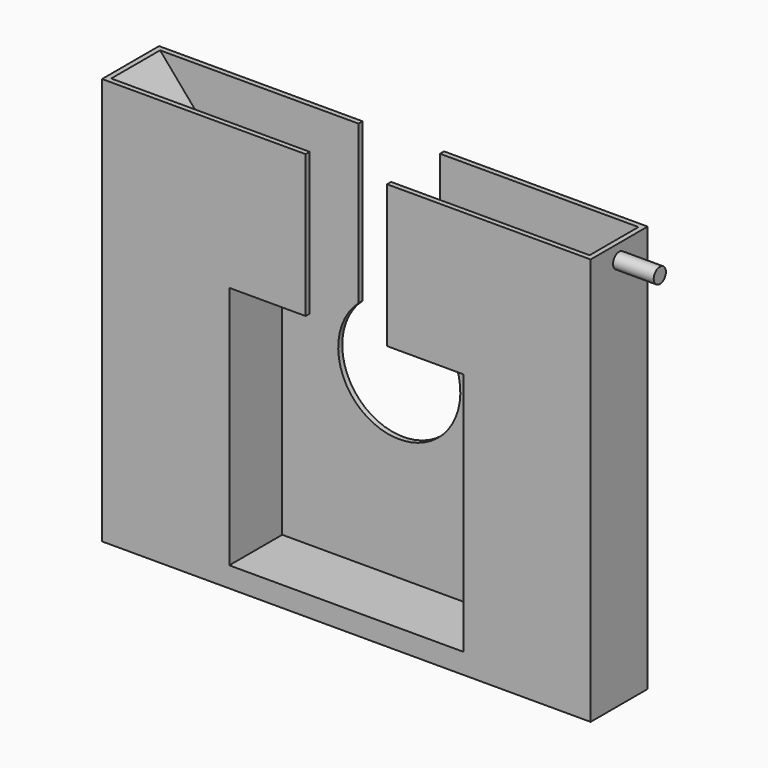
from build123d import *

# Parameters (mm, degrees)
F0_W      = 609.6
F0_H      = 508
F1_DEPTH  = 88.9
F2_W      = 596.9
F2_H      = 82.55
F3_DEPTH  = 482.6
F4_R      = 9.525
F5_DEPTH  = 50.8
F7_DEPTH  = 82.55
F8_W      = 152.4
F8_H      = 304.8
F9_DEPTH  = 82.55
F11_DEPTH = 6.35
F12_R     = 76.2
F13_DEPTH = 25.4
F14_W     = 101.6
F14_H     = 177.8
F15_DEPTH = 25.4
F16_W     = 101.6
F16_H     = 199.39
F17_DEPTH = 25.4


with BuildPart() as f1:
    # F0 (on Front) → F1 (new body)
    with BuildSketch(Plane.XZ):
        Rectangle(F0_W, F0_H)
    extrude(amount=F1_DEPTH)

    # F2 (on face) → F3 (cut)
    with BuildSketch(Plane.XY.offset(254)):
        with Locations((0, -47.625)):
            Rectangle(F2_W, F2_H)
    extrude(amount=-F3_DEPTH, mode=Mode.SUBTRACT)

    # F4 (on face) → F5 (join)
    with BuildSketch(Plane.YZ.offset(304.8)):
        with Locations((-44.45, 234.95)):
            Circle(F4_R)
    extrude(amount=F5_DEPTH)

    # F6 (on face) → F7 (join, through all)
    with BuildSketch(Plane.XZ.offset(88.9)):
        Polygon((-298.45, 254), (-298.45, 76.2), (-146.05, 76.2), align=None)
        Polygon((298.45, 254), (146.05, 76.2), (298.45, 76.2), align=None)
    extrude(amount=-F7_DEPTH)

    # F8 (on face) → F9 (join, through all)
    with BuildSketch(Plane.XZ.offset(88.9)):
        with Locations((-222.25, -76.2)):
            Rectangle(F8_W, F8_H)
        with Locations((222.25, -76.2)):
            Rectangle(F8_W, F8_H)
    extrude(amount=-F9_DEPTH)

    # F10 (on face) → F11 (join)
    with BuildSketch(Plane.XZ.offset(88.9)):
        Polygon((298.45, 254), (-298.45, 254), (-146.05, 76.2), (146.05, 76.2), align=None)
    extrude(amount=-F11_DEPTH)

    # F12 (on face) → F13 (cut)
    with BuildSketch(Plane.XZ.offset(6.35)):
        Circle(F12_R)
    extrude(amount=-F13_DEPTH, mode=Mode.SUBTRACT)

    # F14 (on face) → F15 (cut)
    with BuildSketch(Plane.XZ.offset(88.9)):
        with Locations((0, 165.1)):
            Rectangle(F14_W, F14_H)
    extrude(amount=-F15_DEPTH, mode=Mode.SUBTRACT)

    # F16 (on face) → F17 (cut)
    with BuildSketch(Plane.XZ):
        with Locations((0, 154.305)):
            Rectangle(F16_W, F16_H)
    extrude(amount=F17_DEPTH, mode=Mode.SUBTRACT)


solid = f1.part
